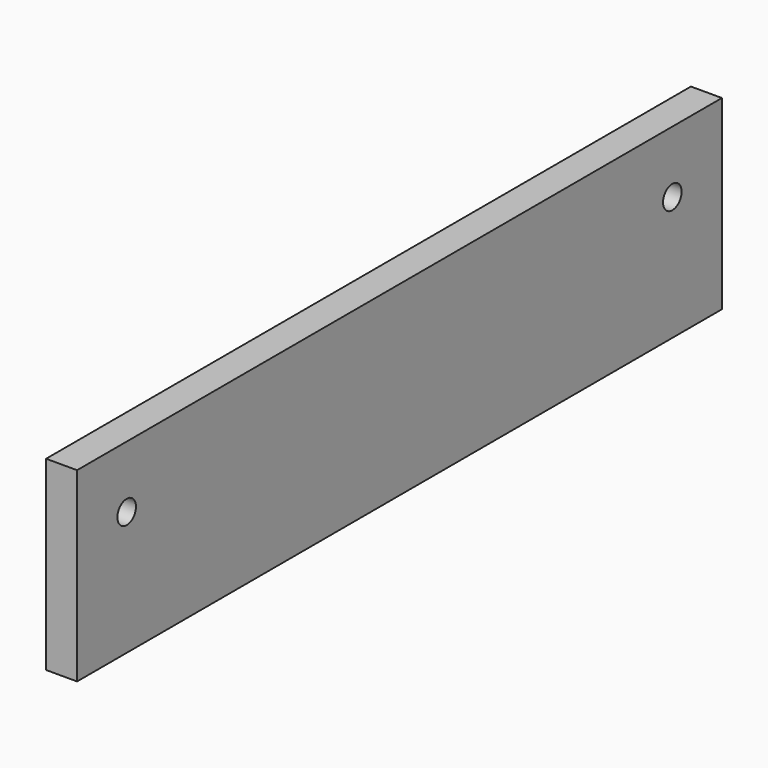
from build123d import *

# Parameters (mm, degrees)
F0_W     = 25.4
F0_H     = 152.4
F1_DEPTH = 660.4
F2_R     = 9.525
F3_DEPTH = 25.401


with BuildPart() as f1:
    # F0 (on Front) → F1 (new body)
    with BuildSketch(Plane.XZ):
        Rectangle(F0_W, F0_H)
    extrude(amount=F1_DEPTH)

    # F2 (on face) → F3 (cut, through all)
    with BuildSketch(Plane.YZ.offset(12.7)):
        with Locations((-609.6, 25.4)):
            Circle(F2_R)
        with Locations((-50.8, 25.4)):
            Circle(F2_R)
    extrude(amount=-F3_DEPTH, mode=Mode.SUBTRACT)


solid = f1.part
